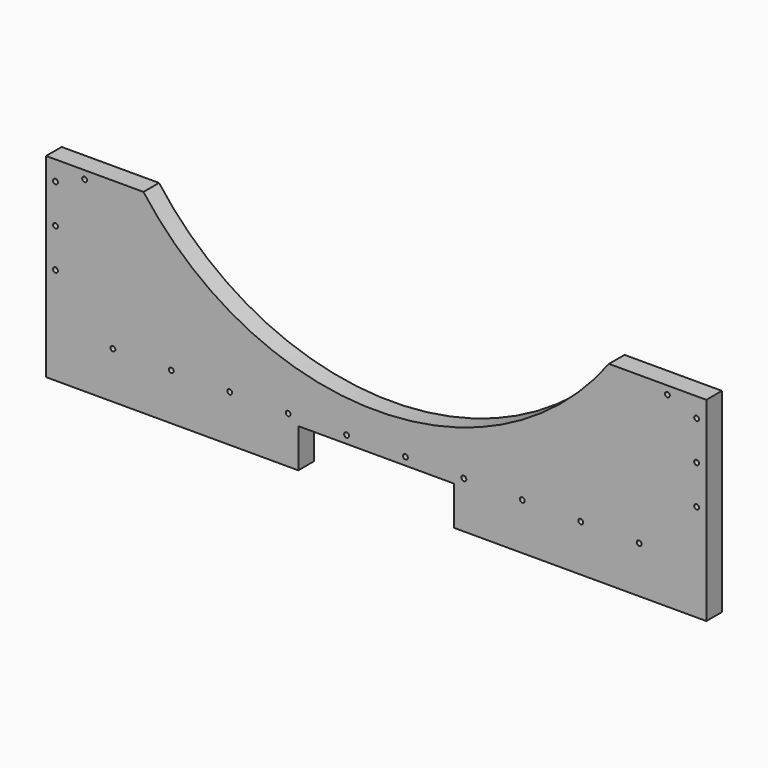
from build123d import *

# Parameters (mm, degrees)
F1_DEPTH = 12.7
F3_D     = 3.175


with BuildPart() as f1:
    # F0 (on Front) → F1 (new body)
    with BuildSketch(Plane.XZ):
        with BuildLine():
            Line((-131.002396, -21.796399), (-194.502396, -21.796399))
            Line((-194.502396, -21.796399), (-194.502396, -148.796399))
            Line((-194.502396, -148.796399), (-30.038724, -148.796399))
            Line((-30.038724, -148.796399), (-30.038724, -123.396399))
            Line((-30.038724, -123.396399), (71.561276, -123.396399))
            Line((71.561276, -123.396399), (71.561276, -148.796399))
            Line((71.561276, -148.796399), (236.024947, -148.796399))
            Line((236.024947, -148.796399), (236.024947, -21.796399))
            Line((236.024947, -21.796399), (172.524947, -21.796399))
            ThreePointArc((172.524947, -21.796399), (20.761276, -97.996399), (-131.002396, -21.796399))
        make_face()
    extrude(amount=F1_DEPTH)

    # F3 (through all)
    with Locations(Plane.XZ.offset(12.7)):
        with Locations((229.674947, -34.496399), (229.674947, -59.896399), (229.674947, -85.296399), (192.211276, -118.316399), (154.111276, -118.316399), (116.011276, -118.316399), (77.911276, -118.316399), (39.811276, -118.316399), (210.624947, -27.102793), (1.471006, -118.316399), (-36.628994, -118.316399), (-74.728994, -118.316399), (-112.828994, -118.316399), (-150.928994, -118.316399), (-188.392666, -85.296399), (-188.392666, -59.896399), (-188.392666, -34.496399), (-169.342666, -27.102793)):
            Hole(F3_D / 2)


solid = f1.part
